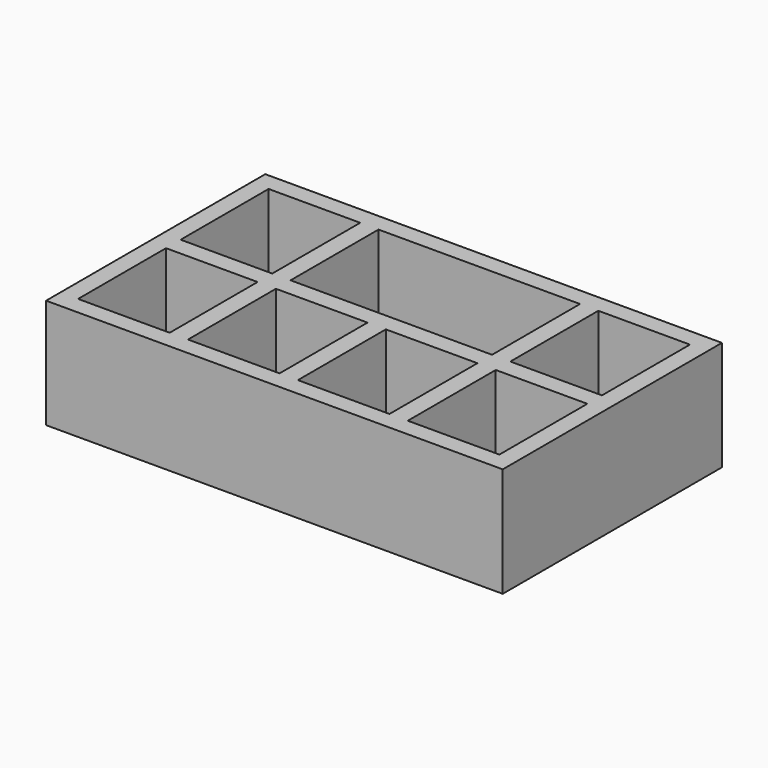
from build123d import *

# Parameters (mm, degrees)
F0_W     = 25
F0_H     = 15
F1_DEPTH = 6
F2_W     = 5.014414
F2_H     = 6.017297
F2_W_2   = 5.014415
F2_H_2   = 6.02018
F3_DEPTH = 5


with BuildPart() as f1:
    # F0 (on Top) → F1 (new body)
    with BuildSketch(Plane.XY):
        with Locations((-35.168455, 27.866766)):
            Rectangle(F0_W, F0_H)
    extrude(amount=F1_DEPTH)

    # F2 (on face) → F3 (cut)
    with BuildSketch(Plane.XY.offset(6)):
        Polygon((-40.684311, 28.368207), (-29.652599, 28.365324), (-29.652599, 34.385504), (-40.684311, 34.385504), align=None)
        with Locations((-44.194401, 24.356675)):
            Rectangle(F2_W, F2_H)
        with Locations((-44.194401, 31.376855)):
            Rectangle(F2_W, F2_H)
        with Locations((-38.177104, 24.356675)):
            Rectangle(F2_W, F2_H)
        with Locations((-32.159807, 24.356675)):
            Rectangle(F2_W_2, F2_H)
        with Locations((-26.142509, 24.356675)):
            Rectangle(F2_W_2, F2_H)
        with Locations((-26.142509, 31.375414)):
            Rectangle(F2_W_2, F2_H_2)
    extrude(amount=-F3_DEPTH, mode=Mode.SUBTRACT)


solid = f1.part
